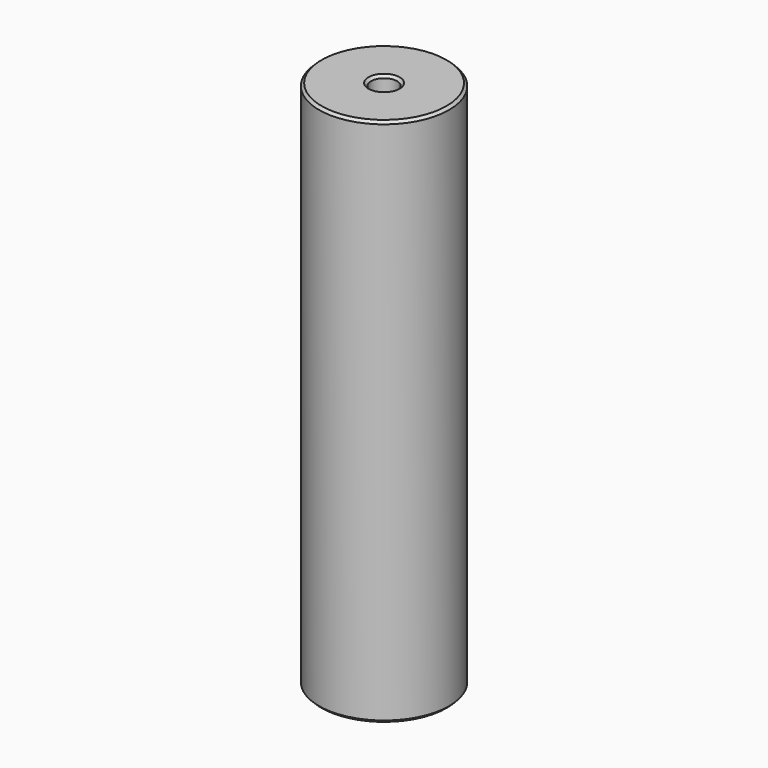
from build123d import *

# Parameters (mm, degrees)
CYLINDER018_R                              = 1.4
CYLINDER018_DEPTH                          = 27
CYLINDER020_R                              = 2
CYLINDER020_DEPTH                          = 8
CYLINDER021_R                              = 2
CYLINDER021_DEPTH                          = 8
CYLINDER019_R                              = 1.4
CYLINDER019_DEPTH                          = 27
CYLINDER017_R                              = 10
CYLINDER017_DEPTH                          = 81.5
CHAMFER004013007011015006009007001084_SIZE = 0.4


with BuildPart() as cylinder018:
    # Cylinder018 → Cylinder018 (new body)
    with BuildSketch(Plane.XY):
        Circle(CYLINDER018_R)
    extrude(amount=CYLINDER018_DEPTH)


with BuildPart() as cylinder020:
    # Cylinder020 → Cylinder020 (new body)
    with BuildSketch(Plane.XY):
        Circle(CYLINDER020_R)
    extrude(amount=CYLINDER020_DEPTH)


with BuildPart() as cylinder021:
    # Cylinder021 → Cylinder021 (new body)
    with BuildSketch(Plane.XY.offset(73.5)):
        Circle(CYLINDER021_R)
    extrude(amount=CYLINDER021_DEPTH)


with BuildPart() as fusion006002011004053036004001_body:
    # Cylinder019 → Cylinder019 (new body)
    with BuildSketch(Plane.XY.offset(54.5)):
        Circle(CYLINDER019_R)
    extrude(amount=CYLINDER019_DEPTH)

    # Fusion006002011004053036004001028003005014018035002007006012: union Cylinder018, Cylinder020, Cylinder021
    add(cylinder018.part)
    add(cylinder020.part)
    add(cylinder021.part)


with BuildPart() as roller:
    # Cylinder017 → Cylinder017 (new body)
    with BuildSketch(Plane.XY):
        Circle(CYLINDER017_R)
    extrude(amount=CYLINDER017_DEPTH)

    # Cut008004003004014002002005003004003002003021022001002001107: cut Fusion006002011004053036004001 body
    add(fusion006002011004053036004001_body.part, mode=Mode.SUBTRACT)

    # Chamfer004013007011015006009007001084
    chamfer004013007011015006009007001084_edges = [roller.edges().sort_by_distance(p)[0] for p in [
        (-10, 0, 81.5),
        (-10, 0, 0),
        (-2, 0, 81.5),
        (-2, 0, 0),
    ]]
    chamfer(chamfer004013007011015006009007001084_edges, length=CHAMFER004013007011015006009007001084_SIZE)


solid = roller.part
